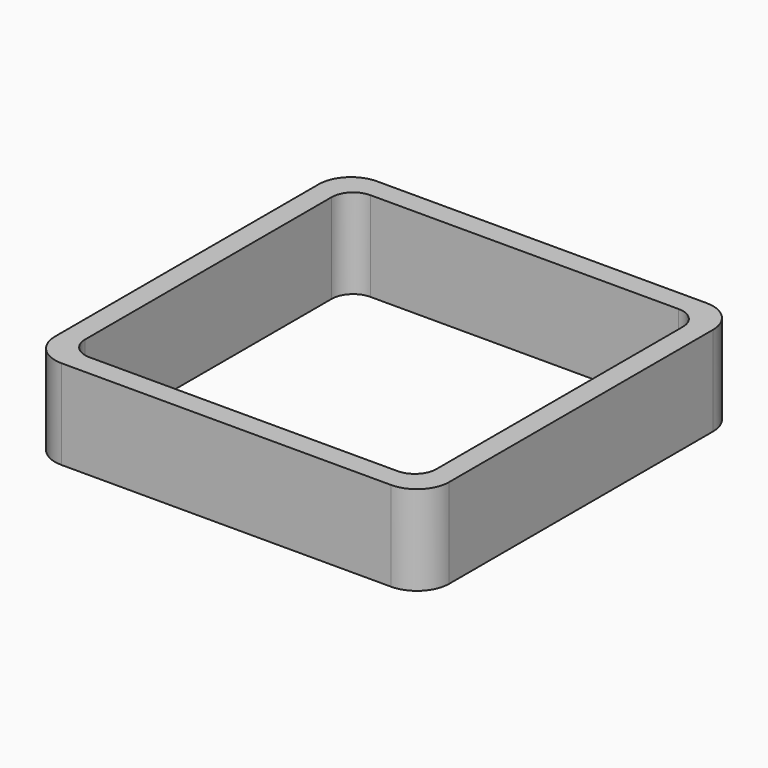
from build123d import *

# Parameters (mm, degrees)
EXTRUDE_DEPTH = 50


with BuildPart() as part:
    # Sketch → Extrude (new body)
    with BuildSketch(Plane.XY):
        with BuildLine():
            Line((-92, 110), (92, 110))
            ThreePointArc((110, 92), (104.727922, 104.727922), (92, 110))
            Line((110, 92), (110, -92))
            ThreePointArc((92, -110), (104.727922, -104.727922), (110, -92))
            Line((92, -110), (-92, -110))
            ThreePointArc((-110, -92), (-104.727922, -104.727922), (-92, -110))
            Line((-110, -92), (-110, 92))
            ThreePointArc((-92, 110), (-104.727922, 104.727922), (-110, 92))
        make_face()
        with BuildLine():
            Line((-86, 98), (86, 98))
            ThreePointArc((98, 86), (94.485281, 94.485281), (86, 98))
            Line((98, 86), (98, -86))
            ThreePointArc((86, -98), (94.485281, -94.485281), (98, -86))
            Line((86, -98), (-86, -98))
            ThreePointArc((-98, -86), (-94.485281, -94.485281), (-86, -98))
            Line((-98, -86), (-98, 86))
            ThreePointArc((-86, 98), (-94.485281, 94.485281), (-98, 86))
        make_face(mode=Mode.SUBTRACT)
    extrude(amount=EXTRUDE_DEPTH)


solid = part.part
